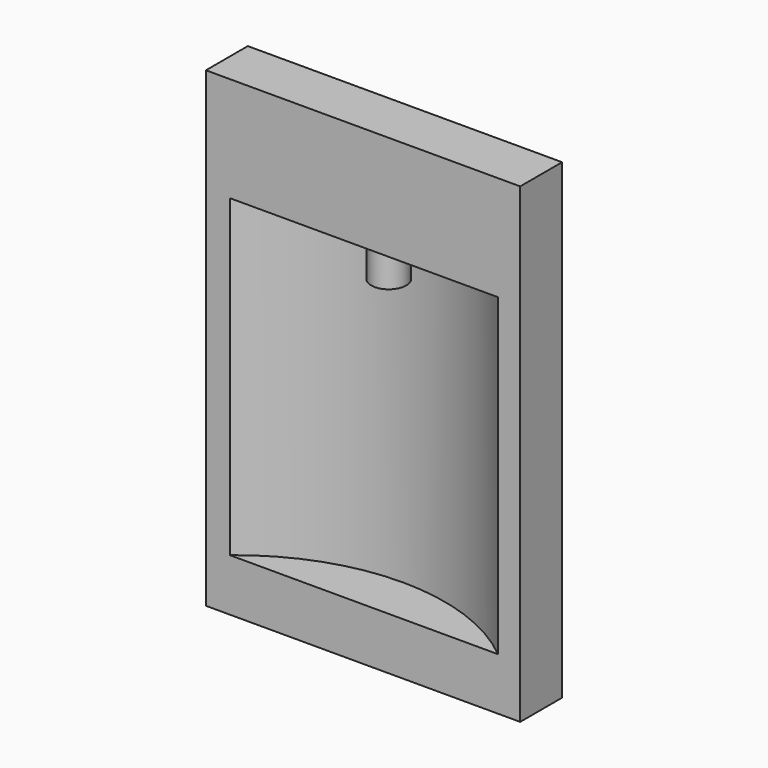
from build123d import *

# Parameters (mm, degrees)
F0_W     = 457.2
F0_H     = 685.8
F1_DEPTH = 76.2
F3_START = -152.4
F3_DEPTH = 457.2
F4_R     = 25.4
F5_DEPTH = 50.8


with BuildPart() as f1:
    # F0 (on Front) → F1 (new body)
    with BuildSketch(Plane.XZ):
        with Locations((36.8095165998, 227.3958778115)):
            Rectangle(F0_W, F0_H)
    extrude(amount=F1_DEPTH)

    # F2 (on face) → F3 (cut)
    with BuildSketch(Plane.XY.offset(570.2958778115).offset(F3_START)):
        with BuildLine():
            Line((-156.9259542905, -76.2), (233.0776903711, -76.2))
            ThreePointArc((233.0776903711, -76.2), (38.0758680403, -5.6591071606), (-156.9259542905, -76.2))
        make_face()
    extrude(amount=-F3_DEPTH, mode=Mode.SUBTRACT)

    # F4 (on face) → F5 (join)
    with BuildSketch(Plane(origin=(0, 0, 417.8958778115), x_dir=(1, 0, 0), z_dir=(0, 0, -1))):
        with Locations((47.3616681993, 42.6765345037)):
            Circle(F4_R)
    extrude(amount=F5_DEPTH)


solid = f1.part
